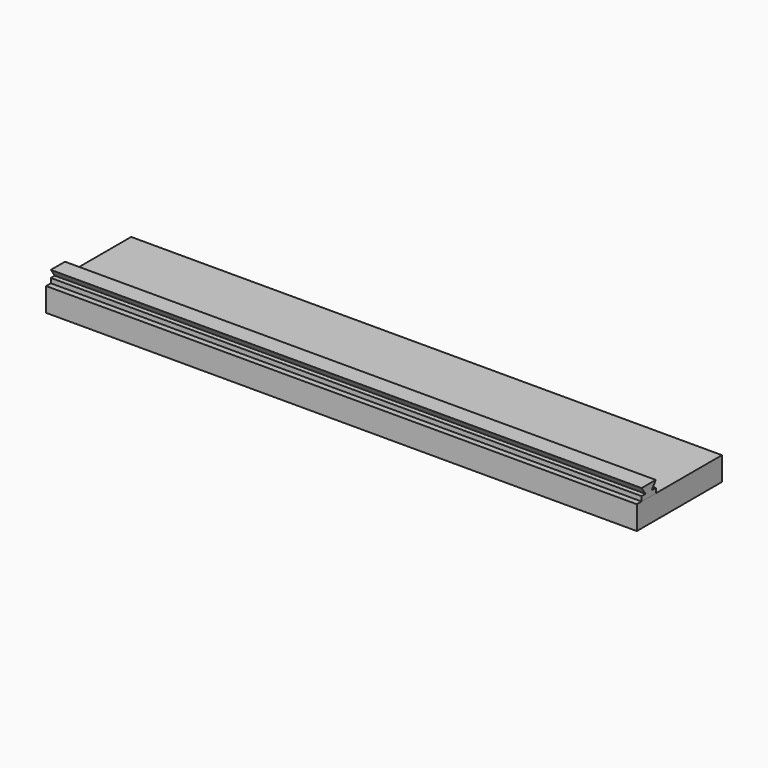
from build123d import *

# Parameters (mm, degrees)
F0_W     = 500
F0_H     = 90
F1_DEPTH = 20
F3_DEPTH = 500


with BuildPart() as f1:
    # F0 (on Top) → F1 (new body)
    with BuildSketch(Plane.XY):
        with Locations((250, 45)):
            Rectangle(F0_W, F0_H)
    extrude(amount=F1_DEPTH)


with BuildPart() as f3:
    # F2 (on Right) → F3 (new body)
    with BuildSketch(Plane.YZ):
        Polygon((5, 20), (20, 20), (20, 24), (15.798755, 24), (20, 30), (5, 30), (9.201245, 24), (5, 24), align=None)
    extrude(amount=F3_DEPTH)


solid = Compound([f1.part, f3.part])
